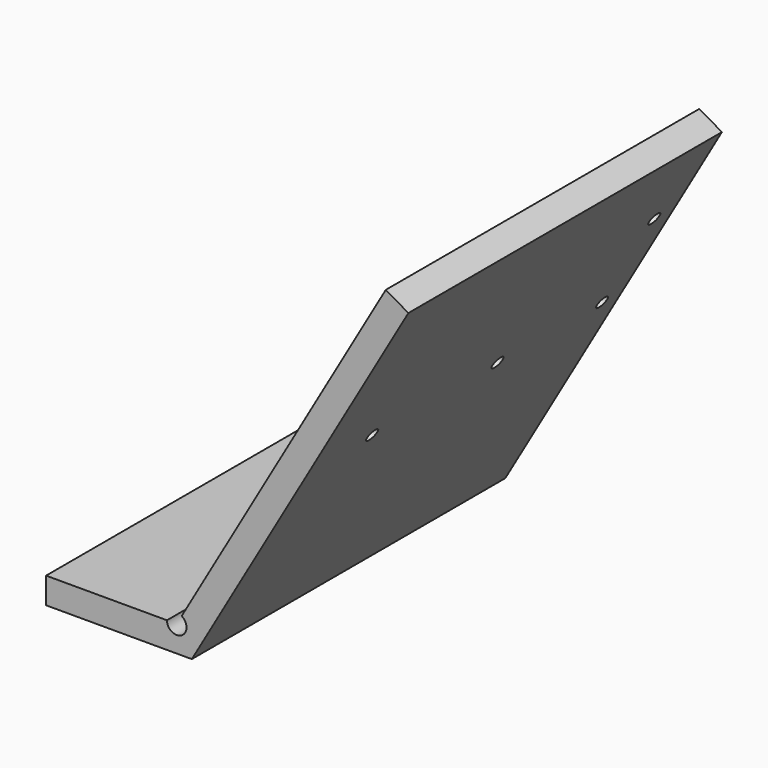
from build123d import *

# Parameters (mm, degrees)
F1_DEPTH = 190.5
F2_R     = 6.35
F3_DEPTH = 21.9964
F4_R     = 3.175
F5_DEPTH = 103.867754064
F6_R     = 6.35
F7_DEPTH = 10.9982


with BuildPart() as f1:
    # F0 (on Front) → F1 (new body)
    with BuildSketch(Plane.XZ):
        with BuildLine():
            Line((8.139213971, 0), (-50.6065376103, 0))
            Line((-50.6065376103, 0), (-50.6065376103, -12.7))
            Line((-50.6065376103, -12.7), (20.2340623897, -12.7))
            Line((20.2340623897, -12.7), (125.5043623897, 169.633508128))
            Line((125.5043623897, 169.633508128), (114.5058397616, 175.983508128))
            Line((114.5058397616, 175.983508128), (15.282963971, 4.1244459855))
            ThreePointArc((15.282963971, 4.1244459855), (15.282963971, -4.1244459855), (8.139213971, 0))
        make_face()
    extrude(amount=F1_DEPTH)

    # F2 (on face) → F3 (join)
    with BuildSketch(Plane.XY):
        with Locations((-23.4285376103, -12.7)):
            Circle(F2_R)
    extrude(amount=F3_DEPTH)

    # F4 (on face) → F5 (cut, through all)
    with BuildSketch(Plane(origin=(9.6762854782, 0, -5.5866060256), x_dir=(0, -1, 0), z_dir=(-0.8660254038, 0, 0.5))):
        with Locations((152.4, 113.4483569855)):
            Circle(F4_R)
        with Locations((76.2, 113.4483569855)):
            Circle(F4_R)
        with Locations((12.7, 113.4483569855)):
            Circle(F4_R)
        with Locations((12.7, 164.2483569855)):
            Circle(F4_R)
    extrude(amount=-F5_DEPTH, mode=Mode.SUBTRACT)

    # F6 (on face) → F7 (join)
    with BuildSketch(Plane(origin=(9.6762854782, 0, -5.5866060256), x_dir=(0, -1, 0), z_dir=(-0.8660254038, 0, 0.5))):
        with Locations((12.7, 46.7733569855)):
            Circle(F6_R)
    extrude(amount=F7_DEPTH)


solid = f1.part
